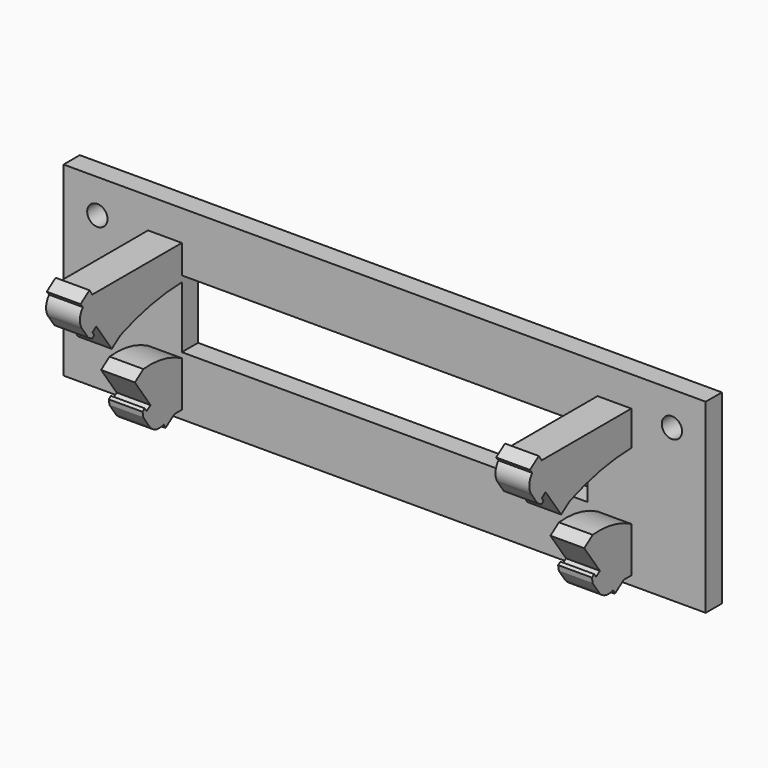
from build123d import *

# Parameters (mm, degrees)
F1_W     = 190
F1_H     = 55
F1_R     = 3
F1_W_2   = 120
F1_H_2   = 20
F2_DEPTH = 6
F7_DEPTH = 5
F8_DEPTH = 10


with BuildPart() as f2:
    # F1 (on Front) → F2 (new body)
    with BuildSketch(Plane.XZ):
        with Locations((75, 17.5)):
            Rectangle(F1_W, F1_H)
        with Locations((-10, 35)):
            Circle(F1_R, mode=Mode.SUBTRACT)
        with Locations((75, 17.5)):
            Rectangle(F1_W_2, F1_H_2, mode=Mode.SUBTRACT)
        with Locations((160, 35)):
            Circle(F1_R, mode=Mode.SUBTRACT)
    extrude(amount=F2_DEPTH)

    # F6 (on offset) → F7 (join, symmetric)
    with BuildSketch(Plane.YZ.offset(10)):
        with BuildLine():
            Line((-38.885744, 26.227702), (-37.657016, 27.088066))
            Line((-37.657016, 27.088066), (-31.921252, 18.896546))
            Line((-31.921252, 18.896546), (-28.711814, 21.143818))
            Line((-28.711814, 21.143818), (-39.086786, 35.960815))
            Line((-39.086786, 35.960815), (-40.183468, 37.527037))
            Line((-40.183468, 37.527037), (-43.460076, 35.232732))
            Line((-43.460076, 35.232732), (-42.582241, 34.087168))
            ThreePointArc((-42.582241, 34.087168), (-43.698463, 31.404123), (-42.907039, 28.607995))
            Line((-42.907039, 28.607995), (-40.612733, 25.331387))
            Line((-40.612733, 25.331387), (-39.183706, 24.517514))
            Line((-39.183706, 24.517514), (-38.364554, 25.09109))
            Line((-38.364554, 25.09109), (-39.070053, 26.098647))
            Line((-39.070053, 26.098647), (-38.885744, 26.227702))
        make_face()
        with BuildLine():
            Line((-39.086786, 35.960815), (-28.711814, 21.143818))
            ThreePointArc((-28.711814, 21.143818), (-16.759457, 24.582262), (-4.374549, 25.720592))
            Line((-4.374549, 25.720592), (-4.374549, 35.960815))
            Line((-4.374549, 35.960815), (-39.086786, 35.960815))
        make_face()
        with BuildLine():
            ThreePointArc((-17.949438, -7.035153), (-15.59262, -8.73518), (-12.689612, -8.60393))
            Line((-12.689612, -8.60393), (-17.581842, -1.582256))
            Line((-17.581842, -1.582256), (-17.58209, -1.581899))
            Line((-17.58209, -1.581899), (-18.995128, -2.571318))
            Line((-18.995128, -2.571318), (-19.700627, -1.563761))
            Line((-19.700627, -1.563761), (-20.519779, -2.137338))
            Line((-20.519779, -2.137338), (-20.243744, -3.758545))
            Line((-20.243744, -3.758545), (-17.949438, -7.035153))
        make_face()
        Polygon((-17.581842, -1.582256), (-12.689612, -8.60393), (-12.027587, -9.800477), (-8.750979, -7.506171), (-20.222507, 8.876869), (-23.364775, 6.67663), (-17.58209, -1.581899), align=None)
        with BuildLine():
            Line((-20.222507, 8.876869), (-8.750979, -7.506171))
            Line((-8.750979, -7.506171), (-4.07082, -7.506171))
            Line((-4.07082, -7.506171), (-4.07082, 4.745829))
            ThreePointArc((-4.07082, 4.745829), (-11.783832, 8.229962), (-20.222507, 8.876869))
        make_face()
    extrude(amount=F7_DEPTH, both=True)

    # F5 (on offset) → F8 (join)
    with BuildSketch(Plane.YZ.offset(138)):
        with BuildLine():
            Line((-38.940573, 26.327715), (-37.711845, 27.188079))
            Line((-37.711845, 27.188079), (-31.957074, 19.010133))
            Line((-31.957074, 19.010133), (-28.767087, 21.243786))
            Line((-28.767087, 21.243786), (-39.142092, 36.060827))
            Line((-39.142092, 36.060827), (-40.238616, 37.626827))
            Line((-40.238616, 37.626827), (-43.515224, 35.332521))
            Line((-43.515224, 35.332521), (-42.63707, 34.187181))
            ThreePointArc((-42.63707, 34.187181), (-43.753291, 31.504136), (-42.961868, 28.708008))
            Line((-42.961868, 28.708008), (-40.667562, 25.4314))
            Line((-40.667562, 25.4314), (-39.238535, 24.617526))
            Line((-39.238535, 24.617526), (-38.419383, 25.191103))
            Line((-38.419383, 25.191103), (-39.124882, 26.19866))
            Line((-39.124882, 26.19866), (-38.940573, 26.327715))
        make_face()
        with BuildLine():
            Line((-39.142092, 36.060827), (-28.767087, 21.243786))
            ThreePointArc((-28.767087, 21.243786), (-16.81473, 24.682229), (-4.429822, 25.820559))
            Line((-4.429822, 25.820559), (-4.429822, 36.060827))
            Line((-4.429822, 36.060827), (-39.142092, 36.060827))
        make_face()
        with BuildLine():
            ThreePointArc((-18.004267, -6.93514), (-15.647449, -8.635167), (-12.744441, -8.503917))
            Line((-12.744441, -8.503917), (-17.636671, -1.482243))
            Line((-17.636671, -1.482243), (-17.636919, -1.481886))
            Line((-17.636919, -1.481886), (-19.049957, -2.471305))
            Line((-19.049957, -2.471305), (-19.755456, -1.463748))
            Line((-19.755456, -1.463748), (-20.574608, -2.037325))
            Line((-20.574608, -2.037325), (-20.298572, -3.658532))
            Line((-20.298572, -3.658532), (-18.004267, -6.93514))
        make_face()
        Polygon((-17.636671, -1.482243), (-12.744441, -8.503917), (-12.08271, -9.70067), (-8.806102, -7.406364), (-20.27763, 8.976676), (-23.419604, 6.776643), (-17.636919, -1.481886), align=None)
        with BuildLine():
            Line((-20.27763, 8.976676), (-8.806102, -7.406364))
            Line((-8.806102, -7.406364), (-4.125649, -7.406364))
            Line((-4.125649, -7.406364), (-4.125649, 4.845636))
            ThreePointArc((-4.125649, 4.845636), (-11.838801, 8.329821), (-20.27763, 8.976676))
        make_face()
    extrude(amount=F8_DEPTH)


solid = f2.part
